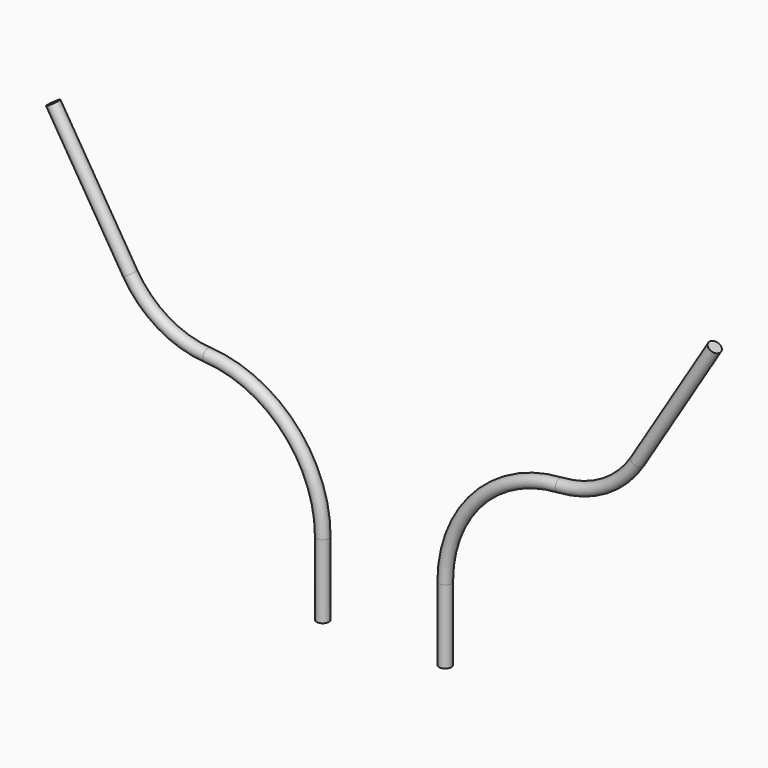
from build123d import *

# Parameters (mm, degrees)
F0_R = 2.5


with BuildPart() as f2:
    # F2: sweep along a path in F1
    with BuildLine(Plane.XZ) as f2_path:
        Line((0, 0), (0, 30))
        ThreePointArc((0, 30), (13.580903, 64.258566), (46.945975, 79.906642))
        ThreePointArc((46.945975, 79.906642), (65.081147, 85.531376), (78.579466, 98.884933))
        Line((78.579466, 98.884933), (110, 150))
    # F0 (on Top) → F2 (sweep)
    with BuildSketch(Plane.XY):
        Circle(F0_R)
    sweep(path=f2_path.line)


with BuildPart() as f4_1:
    # F4: instance of F2
    add(f2.part.mirror(Plane.YZ.offset(-25)))


solid = Compound([f2.part, f4_1.part])
